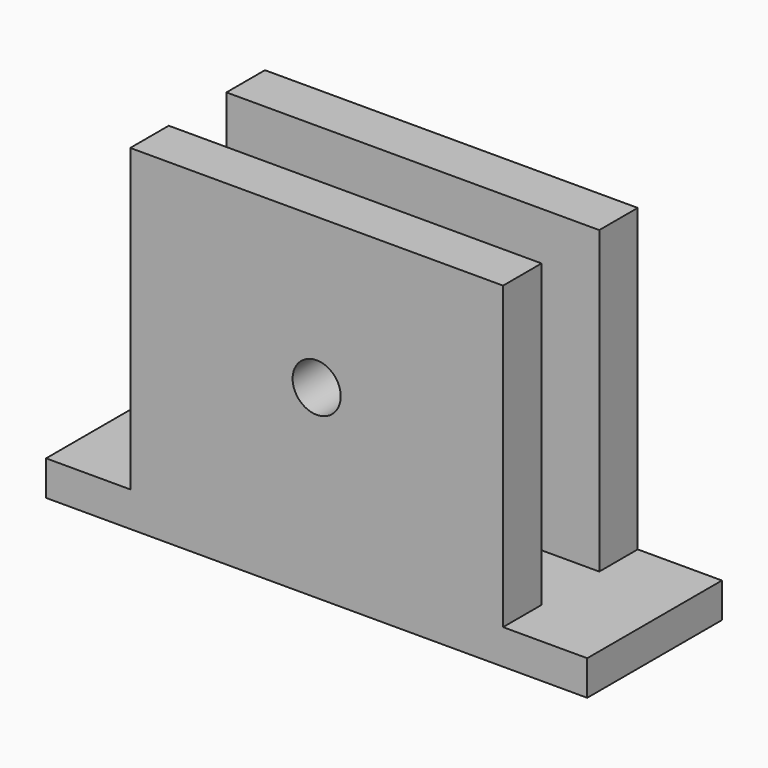
from build123d import *

# Parameters (mm, degrees)
F0_W     = 78.74
F0_H     = 63.5
F1_DEPTH = 35.56
F2_W     = 15.24
F2_H     = 63.5
F3_DEPTH = 127
F4_R     = 5.08
F5_DEPTH = 76.2


with BuildPart() as f1:
    # F0 (on Front) → F1 (new body)
    with BuildSketch(Plane.XZ):
        Polygon((-57.15, 7.366), (-57.15, 0), (57.15, 0), (57.15, 7.366), (39.37, 7.366), (-39.37, 7.366), align=None)
        with Locations((0, 39.116)):
            Rectangle(F0_W, F0_H)
    extrude(amount=F1_DEPTH)

    # F2 (on face) → F3 (cut)
    with BuildSketch(Plane.YZ.offset(39.37)):
        with Locations((-17.78, 39.116)):
            Rectangle(F2_W, F2_H)
    extrude(amount=-F3_DEPTH, mode=Mode.SUBTRACT)

    # F4 (on face) → F5 (cut)
    with BuildSketch(Plane.XZ.offset(35.56)):
        with Locations((0, 39.116)):
            Circle(F4_R)
    extrude(amount=-F5_DEPTH, mode=Mode.SUBTRACT)


solid = f1.part
